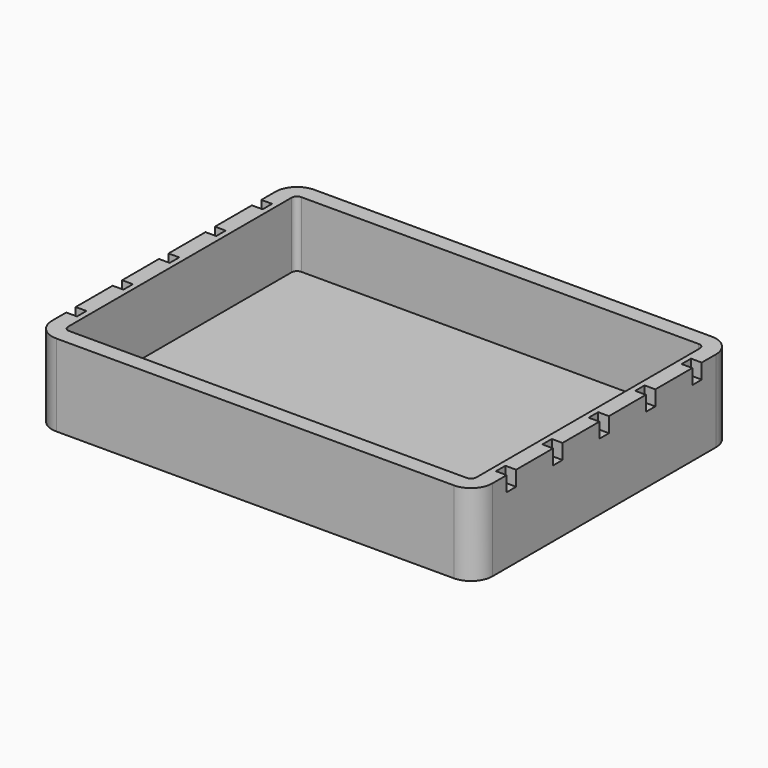
from build123d import *

# Parameters (mm, degrees)
F1_DEPTH = 38.1
F2_T     = -7.5
F3_W     = 5
F3_H     = 5.5
F3_H_2   = 5.55
F4_DEPTH = 7


with BuildPart() as f1:
    # F0 (on Top) → F1 (new body)
    with BuildSketch(Plane.XY):
        with BuildLine():
            Line((92.5, 63.290403), (-92.5, 63.290403))
            ThreePointArc((-92.5, 63.290403), (-99.571068, 60.361471), (-102.5, 53.290403))
            Line((-102.5, 53.290403), (-102.5, -76.709597))
            ThreePointArc((-102.5, -76.709597), (-99.571068, -83.780664), (-92.5, -86.709597))
            Line((-92.5, -86.709597), (92.5, -86.709597))
            ThreePointArc((92.5, -86.709597), (99.571068, -83.780664), (102.5, -76.709597))
            Line((102.5, -76.709597), (102.5, 53.290403))
            ThreePointArc((102.5, 53.290403), (99.571068, 60.361471), (92.5, 63.290403))
        make_face()
    extrude(amount=F1_DEPTH)

    # F2
    f2_openings = [f1.faces().sort_by_distance(p)[0] for p in [
        (0, -11.709597, 38.1),
    ]]
    offset(amount=F2_T, openings=f2_openings)

    # F3 (on face) → F4 (cut)
    with BuildSketch(Plane.XY.offset(38.1)):
        with Locations((-100, 42.290403)):
            Rectangle(F3_W, F3_H)
        with Locations((-100, 15.290403)):
            Rectangle(F3_W, F3_H)
        with Locations((-100, -11.734597)):
            Rectangle(F3_W, F3_H_2)
        with Locations((-100, -38.709597)):
            Rectangle(F3_W, F3_H)
        with Locations((-100, -65.709597)):
            Rectangle(F3_W, F3_H)
        with Locations((100, -65.709597)):
            Rectangle(F3_W, F3_H)
        with Locations((100, -38.709597)):
            Rectangle(F3_W, F3_H)
        with Locations((100, -11.734597)):
            Rectangle(F3_W, F3_H_2)
        with Locations((100, 15.290403)):
            Rectangle(F3_W, F3_H)
        with Locations((100, 42.290403)):
            Rectangle(F3_W, F3_H)
    extrude(amount=-F4_DEPTH, mode=Mode.SUBTRACT)


solid = f1.part
